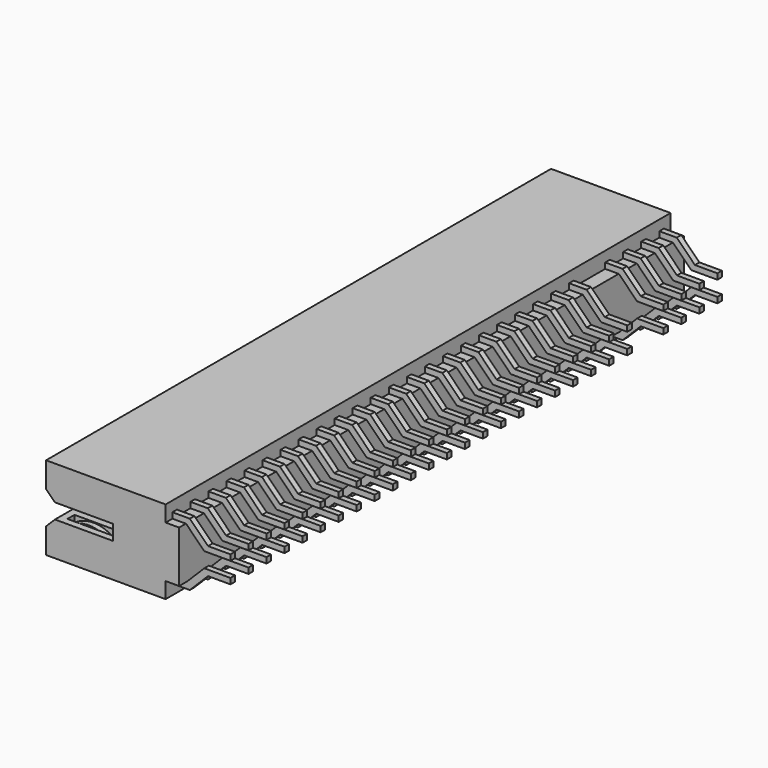
from build123d import *

# Parameters (mm, degrees)
PAD001_DEPTH       = 0.64
ARRAY_Y_COUNT      = 4
ARRAY_Y_PITCH      = 2.54
BOX005_W           = 5
BOX005_H           = 1
BOX005_DEPTH       = 5
PAD002_DEPTH       = 0.64
ARRAY003_Y_COUNT   = 23
ARRAY003_Y_PITCH   = 2.54
BOX004_W           = 5
BOX004_H           = 1
BOX004_DEPTH       = 5
ARRAY002_Y_COUNT   = 28
ARRAY002_Y_PITCH   = 2.54
PAD_DEPTH          = 71.12
CHAMFER_SIZE       = 1
FUSION_PITCH_ANGLE = -90


with BuildPart() as array:
    # Sketch001 → Pad001 (new body)
    with BuildSketch(Plane.XZ.offset(0.95)):
        with BuildLine():
            Line((0.85, -12.476186), (0.85, -9.526796))
            Line((0.85, -9.526796), (2.90061, -7.476186))
            Line((2.90061, -7.476186), (2.90061, 0.124744))
            ThreePointArc((2.90061, 6.796184), (0.813719, 3.460464), (2.90061, 0.124744))
            Line((3.54061, 6.796184), (2.90061, 6.796184))
            Line((3.54061, -7.894816), (3.54061, 6.796184))
            Line((1.49, -9.945426), (3.54061, -7.894816))
            Line((1.49, -12.476186), (1.49, -9.945426))
            Line((0.85, -12.476186), (1.49, -12.476186))
        make_face()
    extrude(amount=PAD001_DEPTH)

    # Array Y: Array ×4


with BuildPart() as array_1:
    add(array.part)
    with Locations(*[(0, -i * ARRAY_Y_PITCH, 0) for i in range(1, ARRAY_Y_COUNT)]):
        add(array.part)


with BuildPart() as mirror_of_array:
    # mirror: instance of Array
    add(array_1.part.mirror(Plane(origin=(0, 0, 0), x_dir=(0, -1, 0), z_dir=(1, 0, 0))))


with BuildPart() as slot:
    # Box005 → Box005 (new body)
    with BuildSketch(Plane(origin=(-2.5, -11.93, 0.75), x_dir=(1, 0, 0), z_dir=(0, 0, 1))):
        with Locations((2.5, 0.5)):
            Rectangle(BOX005_W, BOX005_H)
    extrude(amount=BOX005_DEPTH)


with BuildPart() as array003:
    # Sketch002 → Pad002 (new body)
    with BuildSketch(Plane.XZ.offset(13.65)):
        with BuildLine():
            Line((0.85, -12.476186), (0.85, -9.526796))
            Line((0.85, -9.526796), (2.90061, -7.476186))
            Line((2.90061, -7.476186), (2.90061, 0.124744))
            ThreePointArc((2.90061, 6.796184), (0.813719, 3.460464), (2.90061, 0.124744))
            Line((3.54061, 6.796184), (2.90061, 6.796184))
            Line((3.54061, -7.894816), (3.54061, 6.796184))
            Line((1.49, -9.945426), (3.54061, -7.894816))
            Line((1.49, -12.476186), (1.49, -9.945426))
            Line((0.85, -12.476186), (1.49, -12.476186))
        make_face()
    extrude(amount=PAD002_DEPTH)

    # Array003 Y: Array003 ×23


with BuildPart() as array003_1:
    add(array003.part)
    with Locations(*[(0, -i * ARRAY003_Y_PITCH, 0) for i in range(1, ARRAY003_Y_COUNT)]):
        add(array003.part)


with BuildPart() as array002:
    # Box004 → Box004 (new body)
    with BuildSketch(Plane(origin=(-2.5, -1.77, 0.75), x_dir=(1, 0, 0), z_dir=(0, 0, 1))):
        with Locations((2.5, 0.5)):
            Rectangle(BOX004_W, BOX004_H)
    extrude(amount=BOX004_DEPTH)

    # Array002 Y: Array002 ×28


with BuildPart() as array002_1:
    add(array002.part)
    with Locations(*[(0, -i * ARRAY002_Y_PITCH, 0) for i in range(1, ARRAY002_Y_COUNT)]):
        add(array002.part)


with BuildPart() as carcasa:
    # Sketch → Pad (new body)
    with BuildSketch(Plane.XZ):
        Polygon((-0.85, 7.54), (-4.7, 7.54), (-4.7, -5.93), (-2.9, -5.93), (-2.9, -7.45), (2.9, -7.45), (2.9, -5.93), (4.7, -5.93), (4.7, 7.54), (0.85, 7.54), (0.85, 0), (-0.85, 0), align=None)
    extrude(amount=PAD_DEPTH)

    # Cut004: cut Array002
    add(array002_1.part, mode=Mode.SUBTRACT)

    # Chamfer
    chamfer_edges = [carcasa.edges().sort_by_distance(p)[0] for p in [
        (-0.85, -35.56, 7.54),
        (0.85, -35.56, 7.54),
    ]]
    chamfer(chamfer_edges, length=CHAMFER_SIZE)


with BuildPart() as fusion:
    # mirror001: instance of Array003
    add(array003_1.part.mirror(Plane(origin=(0, 0, 0), x_dir=(0, -1, 0), z_dir=(1, 0, 0))))

    # Fusion: union Mirror of Array, slot, Array003, carcasa, Array
    add(mirror_of_array.part)
    add(slot.part)
    add(array003_1.part)
    add(carcasa.part)
    add(array_1.part)


with BuildPart() as fusion_1:
    # Fusion pitch: moved
    add(fusion.part.rotate(Axis((0, 0, 0), (0, 1, 0)), FUSION_PITCH_ANGLE))


with BuildPart() as fusion_2:
    # Fusion placement: moved
    add(fusion_1.part.moved(Location((-17, 1.27, -85))))


solid = fusion_2.part
